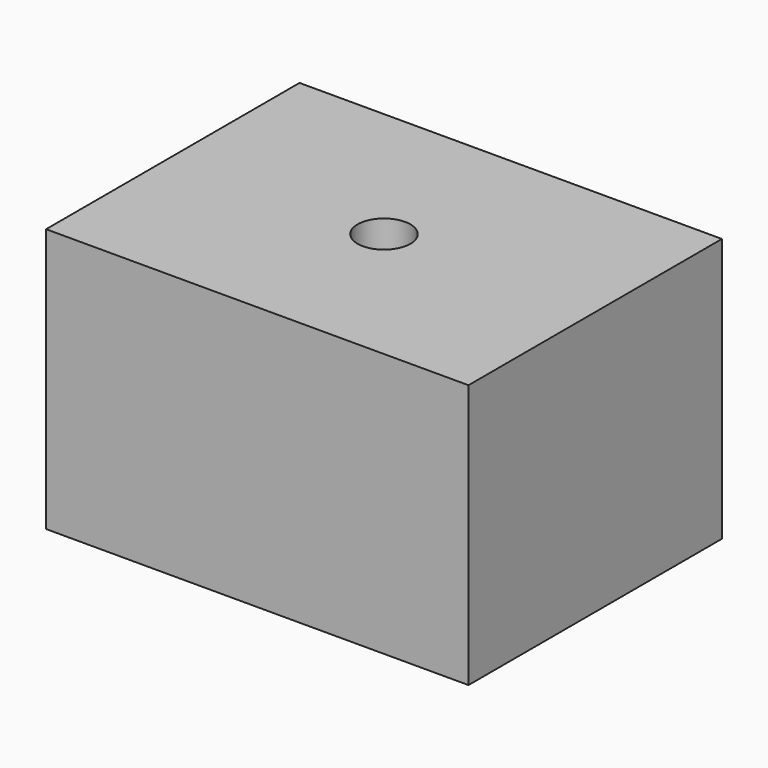
from build123d import *

# Parameters (mm, degrees)
F0_W     = 80
F0_H     = 60
F1_DEPTH = 50
F2_R     = 5
F3_DEPTH = 25


with BuildPart() as f1:
    # F0 (on Top) → F1 (new body)
    with BuildSketch(Plane.XY):
        Rectangle(F0_W, F0_H)
        Rectangle(F0_W, F0_H)
    extrude(amount=F1_DEPTH)

    # F2 (on face) → F3 (cut)
    with BuildSketch(Plane.XY.offset(50)):
        Circle(F2_R)
    extrude(amount=-F3_DEPTH, mode=Mode.SUBTRACT)


solid = f1.part
